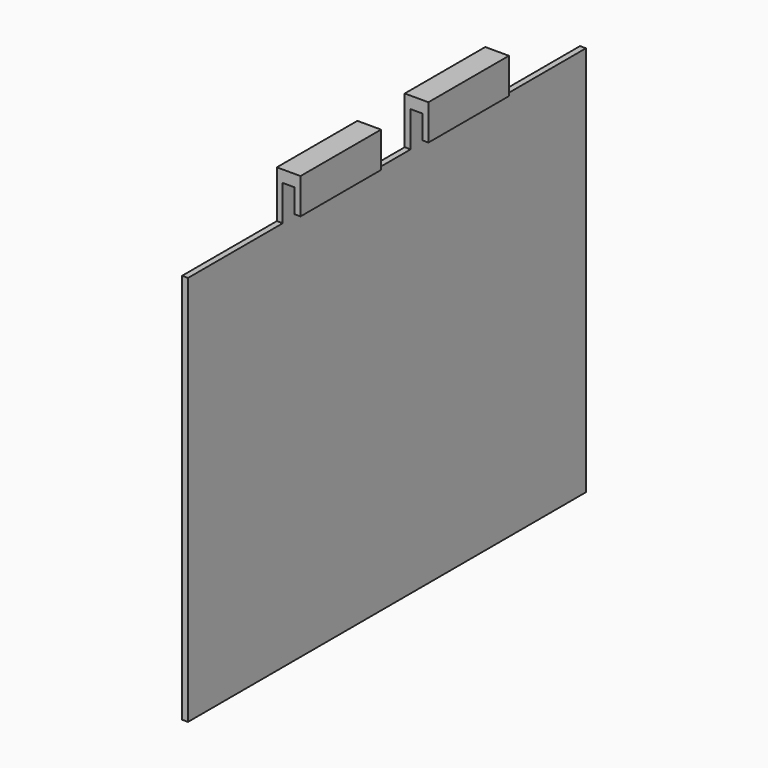
from build123d import *

# Parameters (mm, degrees)
F0_W     = 1.5875
F0_H     = 12.7
F0_H_2   = 6.35
F0_H_3   = 101.6
F1_DEPTH = 66.675
F3_DEPTH = 7.9375
F5_DEPTH = 31.75


with BuildPart() as f1:
    # F0 (on Front) → F1 (new body)
    with BuildSketch(Plane.XZ):
        Polygon((-4.8573001859, 98.5494344607), (-4.8573001859, 95.3744344607), (-3.2698001859, 95.3744344607), (-0.0948001859, 95.3744344607), (1.4926998141, 95.3744344607), (1.4926998141, 98.5494344607), align=None)
        with Locations((-4.0635501859, 89.0244344607)):
            Rectangle(F0_W, F0_H)
        with Locations((0.6989498141, 92.1994344607)):
            Rectangle(F0_W, F0_H_2)
        with Locations((-4.0635501859, 31.8744344607)):
            Rectangle(F0_W, F0_H_3)
    extrude(amount=F1_DEPTH)

    # F2 (on face) → F3 (cut)
    with BuildSketch(Plane.XZ.offset(66.675)):
        Polygon((-4.8573001859, 98.5494344607), (-4.8573001859, 85.8803465962), (-3.2698001859, 85.8803465962), (-3.2698001859, 95.3744344607), (-0.0948001859, 95.3744344607), (-0.0948001859, 89.0244344607), (1.4926998141, 89.0244344607), (1.4926998141, 98.5494344607), align=None)
    extrude(amount=-F3_DEPTH, mode=Mode.SUBTRACT)

    # F4 (on face) → F5 (cut)
    with BuildSketch(Plane(origin=(0, 0, 0), x_dir=(-1, 0, 0), z_dir=(0, 1, 0))):
        Polygon((3.2698001859, 85.861839354), (4.8573001859, 85.861839354), (4.8573001859, 98.5494344607), (-1.4926998141, 98.5494344607), (-1.4926998141, 89.0244344607), (0.0948001859, 89.0244344607), (0.0948001859, 95.3744344607), (3.2698001859, 95.3744344607), align=None)
    extrude(amount=-F5_DEPTH, mode=Mode.SUBTRACT)

    # F6: F1 across face


with BuildPart() as f1_1:
    add(f1.part)
    add(f1.part.mirror(Plane(origin=(-4.0635501859, -66.675, 33.4773905285), x_dir=(1, 0, 0), z_dir=(0, -1, 0))))


solid = f1_1.part
